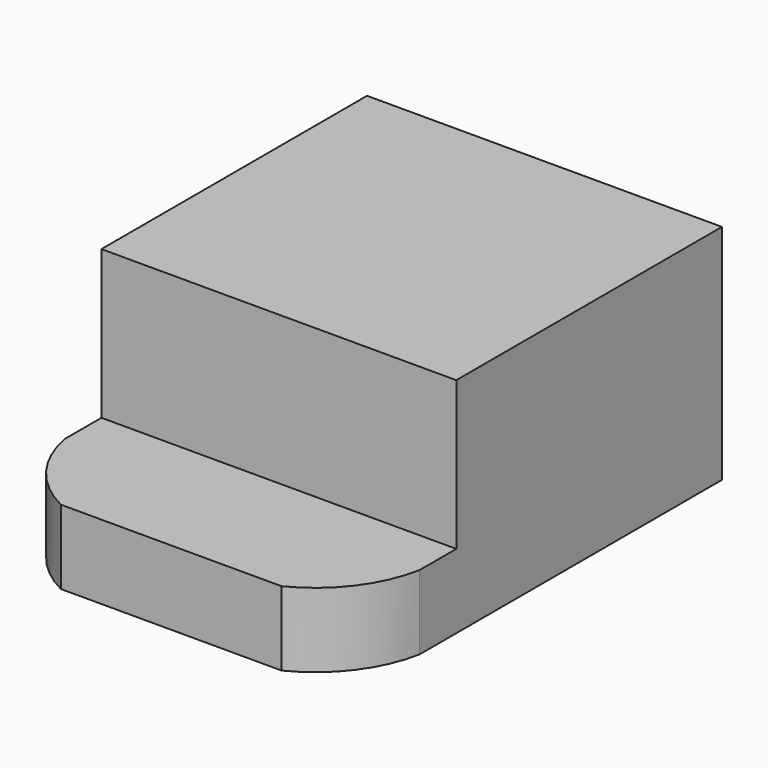
from build123d import *

# Parameters (mm, degrees)
F0_W     = 60.695362
F0_H     = 79.794884
F1_DEPTH = 12.7
F2_W     = 60.695362
F2_H     = 56.786033
F3_DEPTH = 25.4
F5_DEPTH = 25.4


with BuildPart() as f1:
    # F0 (on Top) → F1 (new body)
    with BuildSketch(Plane.XY):
        Rectangle(F0_W, F0_H)
    extrude(amount=F1_DEPTH)

    # F2 (on face) → F3 (join)
    with BuildSketch(Plane.XY.offset(12.7)):
        with Locations((0, 11.504425)):
            Rectangle(F2_W, F2_H)
    extrude(amount=F3_DEPTH)

    # F4 (on face) → F5 (cut)
    with BuildSketch(Plane.XY.offset(12.7)):
        with BuildLine():
            Line((30.347681, -39.897442), (30.347681, -24.713867))
            ThreePointArc((30.347681, -24.713867), (26.398788, -33.656666), (18.874153, -39.897442))
            Line((18.874153, -39.897442), (30.347681, -39.897442))
        make_face()
        with BuildLine():
            ThreePointArc((-18.874153, -39.897442), (-26.398788, -33.656666), (-30.347681, -24.713867))
            Line((-30.347681, -24.713867), (-30.347681, -39.897442))
            Line((-30.347681, -39.897442), (-18.874153, -39.897442))
        make_face()
    extrude(amount=-F5_DEPTH, mode=Mode.SUBTRACT)


solid = f1.part
